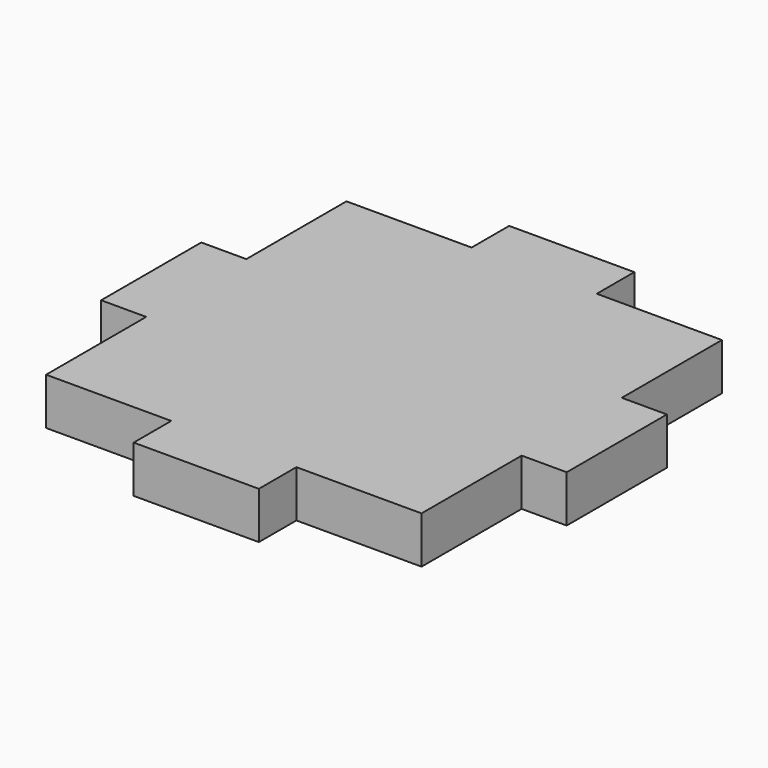
from build123d import *

# Parameters (mm, degrees)
F0_W     = 3.048
F0_H     = 8.466666
F0_W_2   = 8.466666
F0_H_2   = 3.175
F1_DEPTH = 3.175


with BuildPart() as f1:
    # F0 (on Top) → F1 (new body)
    with BuildSketch(Plane.XY):
        Polygon((4.233333, -12.7), (12.7, -12.7), (12.7, -4.233333), (12.7, 4.233333), (12.7, 12.7), (4.233333, 12.7), (-4.233333, 12.7), (-12.7, 12.7), (-12.7, 4.233333), (-12.7, -4.233333), (-12.7, -12.7), (-4.233333, -12.7), align=None)
        with Locations((-14.224, 0)):
            Rectangle(F0_W, F0_H)
        with Locations((0, 14.2875)):
            Rectangle(F0_W_2, F0_H_2)
        with Locations((14.224, 0)):
            Rectangle(F0_W, F0_H)
        with Locations((0, -14.2875)):
            Rectangle(F0_W_2, F0_H_2)
    extrude(amount=F1_DEPTH)


solid = f1.part
